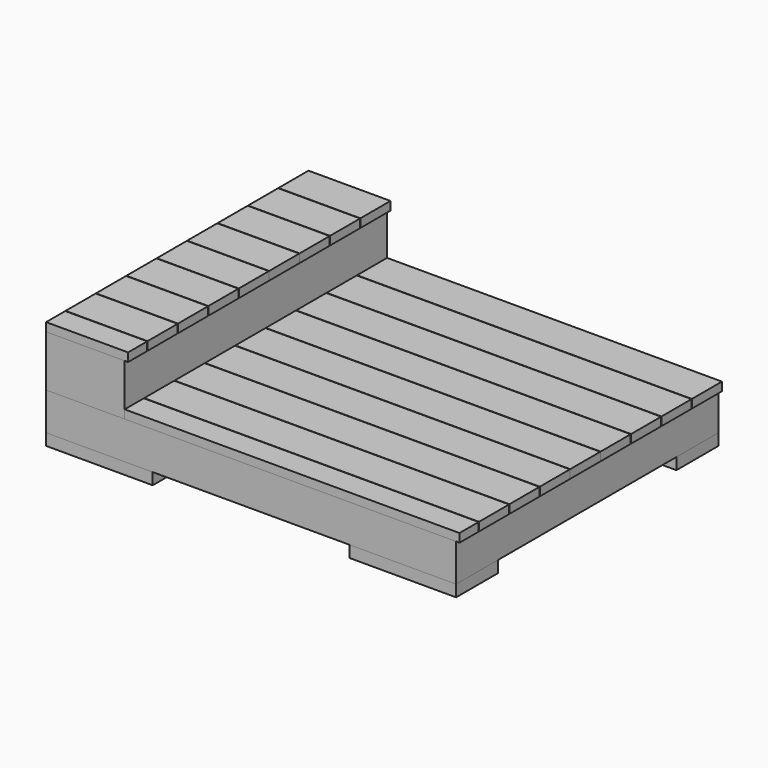
from build123d import *

# Parameters (mm, degrees)
F0_W      = 260.35
F0_H      = 1143
F1_DEPTH  = 139.7
F2_W      = 38.1
F2_H      = 1143
F3_DEPTH  = 190.5
F4_W      = 139.7
F4_H      = 31.75
F5_DEPTH  = 304.8
F4_W_2    = 88.9
F6_W      = 88.9
F6_H      = 31.75
F7_DEPTH  = 1244.6
F6_W_2    = 139.7
F8_W      = 88.9
F8_H      = 38.1
F9_DEPTH  = 330.2
F10_W     = 396.24
F10_H     = 195.58
F11_DEPTH = 43.18


with BuildPart() as f1:
    # F0 (on Top) → F1 (new body)
    with BuildSketch(Plane.XY):
        Polygon((762, 609.6), (-762, 609.6), (-762, 571.5), (-469.9, 571.5), (-469.9, -571.5), (-762, -571.5), (-762, -609.6), (762, -609.6), align=None)
        with Locations((-301.625, 0)):
            Rectangle(F0_W, F0_H, mode=Mode.SUBTRACT)
        with Locations((-3.175, 0)):
            Rectangle(F0_W, F0_H, mode=Mode.SUBTRACT)
        with Locations((295.275, 0)):
            Rectangle(F0_W, F0_H, mode=Mode.SUBTRACT)
        with Locations((593.725, 0)):
            Rectangle(F0_W, F0_H, mode=Mode.SUBTRACT)
    extrude(amount=F1_DEPTH)


with BuildPart() as f3:
    # F2 (on face) → F3 (new body)
    with BuildSketch(Plane.XY.offset(139.7)):
        Polygon((-762, -571.5), (-762, -609.6), (-469.9, -609.6), (-469.9, -571.5), (-508, -571.5), (-723.9, -571.5), align=None)
        with Locations((-488.95, 0)):
            Rectangle(F2_W, F2_H)
        Polygon((-762, 609.6), (-762, 571.5), (-723.9, 571.5), (-508, 571.5), (-469.9, 571.5), (-469.9, 609.6), align=None)
        Polygon((-762, -571.5), (-762, -609.6), (-469.9, -609.6), (-469.9, -571.5), (-508, -571.5), (-723.9, -571.5), align=None)
        with Locations((-742.95, 0)):
            Rectangle(F2_W, F2_H)
        Polygon((-762, 609.6), (-762, 571.5), (-723.9, 571.5), (-508, 571.5), (-469.9, 571.5), (-469.9, 609.6), align=None)
    extrude(amount=F3_DEPTH)


with BuildPart() as f5:
    # F4 (on face) → F5 (new body)
    with BuildSketch(Plane(origin=(-762, 0, 0), x_dir=(0, -1, 0), z_dir=(-1, 0, 0))):
        with Locations((-539.75, 346.075)):
            Rectangle(F4_W, F4_H)
    extrude(amount=-F5_DEPTH)


with BuildPart() as f5b:
    # F4 (on face) → F5, piece 2 (new body)
    with BuildSketch(Plane(origin=(-762, 0, 0), x_dir=(0, -1, 0), z_dir=(-1, 0, 0))):
        with Locations((-398.4625, 346.075)):
            Rectangle(F4_W, F4_H)
    extrude(amount=-F5_DEPTH)


with BuildPart() as f5c:
    # F4 (on face) → F5, piece 3 (new body)
    with BuildSketch(Plane(origin=(-762, 0, 0), x_dir=(0, -1, 0), z_dir=(-1, 0, 0))):
        with Locations((-257.175, 346.075)):
            Rectangle(F4_W, F4_H)
    extrude(amount=-F5_DEPTH)


with BuildPart() as f5d:
    # F4 (on face) → F5, piece 4 (new body)
    with BuildSketch(Plane(origin=(-762, 0, 0), x_dir=(0, -1, 0), z_dir=(-1, 0, 0))):
        with Locations((-115.8875, 346.075)):
            Rectangle(F4_W, F4_H)
    extrude(amount=-F5_DEPTH)


with BuildPart() as f5e:
    # F4 (on face) → F5, piece 5 (new body)
    with BuildSketch(Plane(origin=(-762, 0, 0), x_dir=(0, -1, 0), z_dir=(-1, 0, 0))):
        with Locations((25.4, 346.075)):
            Rectangle(F4_W, F4_H)
    extrude(amount=-F5_DEPTH)


with BuildPart() as f5f:
    # F4 (on face) → F5, piece 6 (new body)
    with BuildSketch(Plane(origin=(-762, 0, 0), x_dir=(0, -1, 0), z_dir=(-1, 0, 0))):
        with Locations((166.6875, 346.075)):
            Rectangle(F4_W, F4_H)
    extrude(amount=-F5_DEPTH)


with BuildPart() as f5g:
    # F4 (on face) → F5, piece 7 (new body)
    with BuildSketch(Plane(origin=(-762, 0, 0), x_dir=(0, -1, 0), z_dir=(-1, 0, 0))):
        with Locations((307.975, 346.075)):
            Rectangle(F4_W, F4_H)
    extrude(amount=-F5_DEPTH)


with BuildPart() as f5h:
    # F4 (on face) → F5, piece 8 (new body)
    with BuildSketch(Plane(origin=(-762, 0, 0), x_dir=(0, -1, 0), z_dir=(-1, 0, 0))):
        with Locations((449.2625, 346.075)):
            Rectangle(F4_W, F4_H)
    extrude(amount=-F5_DEPTH)


with BuildPart() as f5i:
    # F4 (on face) → F5, piece 9 (new body)
    with BuildSketch(Plane(origin=(-762, 0, 0), x_dir=(0, -1, 0), z_dir=(-1, 0, 0))):
        with Locations((565.15, 346.075)):
            Rectangle(F4_W_2, F4_H)
    extrude(amount=-F5_DEPTH)


with BuildPart() as f7:
    # F6 (on face) → F7 (new body)
    with BuildSketch(Plane.YZ.offset(-469.9)):
        with Locations((-565.15, 155.575)):
            Rectangle(F6_W, F6_H)
    extrude(amount=F7_DEPTH)


with BuildPart() as f7b:
    # F6 (on face) → F7, piece 2 (new body)
    with BuildSketch(Plane.YZ.offset(-469.9)):
        with Locations((-449.2625, 155.575)):
            Rectangle(F6_W_2, F6_H)
    extrude(amount=F7_DEPTH)


with BuildPart() as f7c:
    # F6 (on face) → F7, piece 3 (new body)
    with BuildSketch(Plane.YZ.offset(-469.9)):
        with Locations((-307.975, 155.575)):
            Rectangle(F6_W_2, F6_H)
    extrude(amount=F7_DEPTH)


with BuildPart() as f7d:
    # F6 (on face) → F7, piece 4 (new body)
    with BuildSketch(Plane.YZ.offset(-469.9)):
        with Locations((-166.6875, 155.575)):
            Rectangle(F6_W_2, F6_H)
    extrude(amount=F7_DEPTH)


with BuildPart() as f7e:
    # F6 (on face) → F7, piece 5 (new body)
    with BuildSketch(Plane.YZ.offset(-469.9)):
        with Locations((-25.4, 155.575)):
            Rectangle(F6_W_2, F6_H)
    extrude(amount=F7_DEPTH)


with BuildPart() as f7f:
    # F6 (on face) → F7, piece 6 (new body)
    with BuildSketch(Plane.YZ.offset(-469.9)):
        with Locations((115.8875, 155.575)):
            Rectangle(F6_W_2, F6_H)
    extrude(amount=F7_DEPTH)


with BuildPart() as f7g:
    # F6 (on face) → F7, piece 7 (new body)
    with BuildSketch(Plane.YZ.offset(-469.9)):
        with Locations((257.175, 155.575)):
            Rectangle(F6_W_2, F6_H)
    extrude(amount=F7_DEPTH)


with BuildPart() as f7h:
    # F6 (on face) → F7, piece 8 (new body)
    with BuildSketch(Plane.YZ.offset(-469.9)):
        with Locations((398.4625, 155.575)):
            Rectangle(F6_W_2, F6_H)
    extrude(amount=F7_DEPTH)


with BuildPart() as f7i:
    # F6 (on face) → F7, piece 9 (new body)
    with BuildSketch(Plane.YZ.offset(-469.9)):
        with Locations((539.75, 155.575)):
            Rectangle(F6_W_2, F6_H)
    extrude(amount=F7_DEPTH)


with BuildPart() as f9:
    # F8 (on face) → F9 (new body, through all)
    with BuildSketch(Plane(origin=(0, 0, 0), x_dir=(1, 0, 0), z_dir=(0, 0, -1))):
        with Locations((-615.95, 552.45)):
            Rectangle(F8_W, F8_H)
    extrude(amount=-F9_DEPTH)


with BuildPart() as f9b:
    # F8 (on face) → F9, piece 2 (new body, through all)
    with BuildSketch(Plane(origin=(0, 0, 0), x_dir=(1, 0, 0), z_dir=(0, 0, -1))):
        with Locations((-615.95, -552.45)):
            Rectangle(F8_W, F8_H)
    extrude(amount=-F9_DEPTH)


with BuildPart() as f11:
    # F10 (on face) → F11 (new body)
    with BuildSketch(Plane(origin=(0, 0, 0), x_dir=(1, 0, 0), z_dir=(0, 0, -1))):
        with Locations((-563.88, 511.81)):
            Rectangle(F10_W, F10_H)
    extrude(amount=F11_DEPTH)


with BuildPart() as f11b:
    # F10 (on face) → F11, piece 2 (new body)
    with BuildSketch(Plane(origin=(0, 0, 0), x_dir=(1, 0, 0), z_dir=(0, 0, -1))):
        with Locations((563.88, 511.81)):
            Rectangle(F10_W, F10_H)
    extrude(amount=F11_DEPTH)


with BuildPart() as f11c:
    # F10 (on face) → F11, piece 3 (new body)
    with BuildSketch(Plane(origin=(0, 0, 0), x_dir=(1, 0, 0), z_dir=(0, 0, -1))):
        with Locations((-563.88, -511.81)):
            Rectangle(F10_W, F10_H)
    extrude(amount=F11_DEPTH)


with BuildPart() as f11d:
    # F10 (on face) → F11, piece 4 (new body)
    with BuildSketch(Plane(origin=(0, 0, 0), x_dir=(1, 0, 0), z_dir=(0, 0, -1))):
        with Locations((563.88, -511.81)):
            Rectangle(F10_W, F10_H)
    extrude(amount=F11_DEPTH)


solid = Compound([f1.part, f3.part, f5.part, f5b.part, f5c.part, f5d.part, f5e.part, f5f.part, f5g.part, f5h.part, f5i.part, f7.part, f7b.part, f7c.part, f7d.part, f7e.part, f7f.part, f7g.part, f7h.part, f7i.part, f9.part, f9b.part, f11.part, f11b.part, f11c.part, f11d.part])
